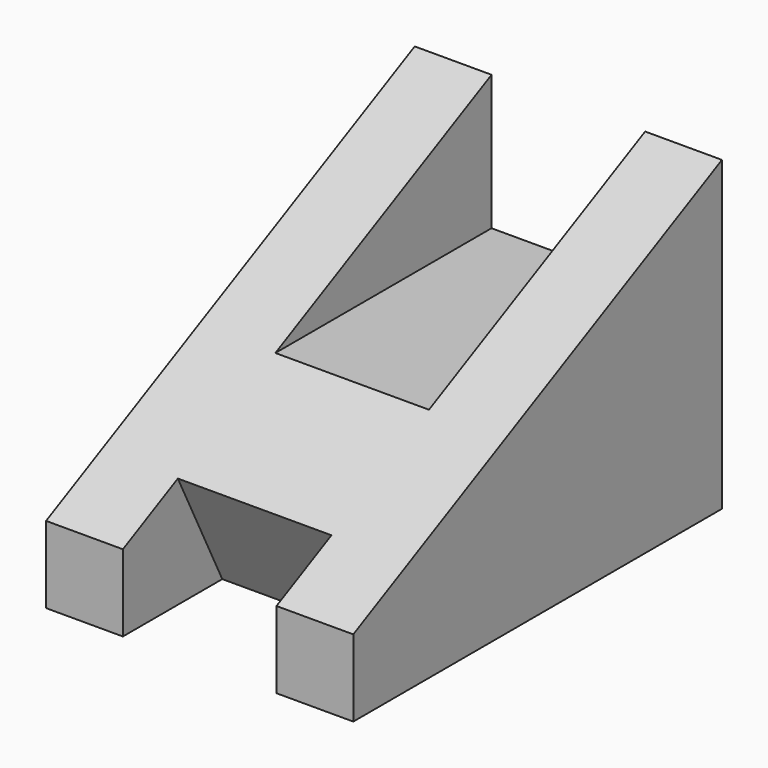
from build123d import *

# Parameters (mm, degrees)
F1_DEPTH = 30
F3_DEPTH = 20.001
F5_DEPTH = 5
F6_W     = 10
F6_H     = 5
F7_DEPTH = 17.88954382


with BuildPart() as f1:
    # F0 (on Front) → F1 (new body)
    with BuildSketch(Plane.XZ):
        Polygon((-10, 20), (-10, 0), (10, 0), (10, 20), (5, 20), (5, 11.2048187231), (-5, 11.2048187231), (-5, 20), align=None)
    extrude(amount=F1_DEPTH)

    # F2 (on face) → F3 (cut, through all)
    with BuildSketch(Plane(origin=(-10, 0, 0), x_dir=(0, -1, 0), z_dir=(-1, 0, 0))):
        Polygon((0, 20), (30, 5), (30, 20), align=None)
    extrude(amount=-F3_DEPTH, mode=Mode.SUBTRACT)

    # F4 (on face) → F5 (cut)
    with BuildSketch(Plane.XZ.offset(30)):
        Polygon((-5, 2.5), (-5, 0), (5, 0), (5, 2.5), (5, 5), (-5, 5), align=None)
    extrude(amount=-F5_DEPTH, mode=Mode.SUBTRACT)

    # F6 (on face) → F7 (cut, through all)
    with BuildSketch(Plane(origin=(0, -8, 16), x_dir=(1, 0, 0), z_dir=(0, -0.4472135955, 0.894427191))):
        with Locations((0, -22.0967477525)):
            Rectangle(F6_W, F6_H)
    extrude(amount=-F7_DEPTH, mode=Mode.SUBTRACT)


solid = f1.part
